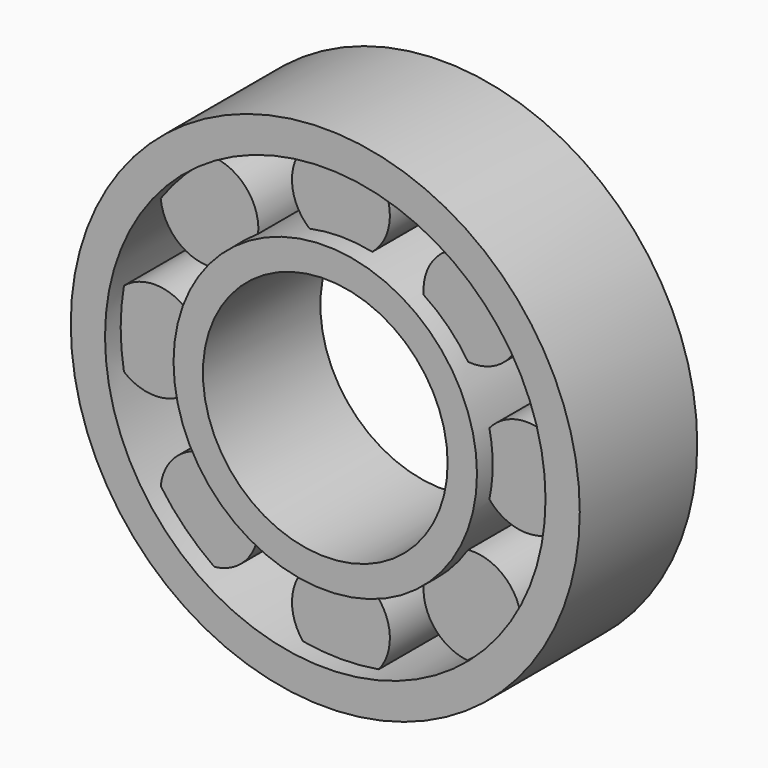
from build123d import *

# Parameters (mm, degrees)
F0_R     = 15.5
F0_R_2   = 12.5
F1_DEPTH = 7.5
F2_R     = 26
F2_R_2   = 22.5
F3_DEPTH = 7.5
F4_R     = 5
F5_DEPTH = 5.5


with BuildPart() as f1:
    # F0 (on Front) → F1 (new body, symmetric)
    with BuildSketch(Plane.XZ):
        Circle(F0_R)
        Circle(F0_R_2, mode=Mode.SUBTRACT)
    extrude(amount=F1_DEPTH, both=True)



with BuildPart() as f3:
    # F2 (on Front) → F3 (new body, symmetric)
    with BuildSketch(Plane.XZ):
        Circle(F2_R)
        Circle(F2_R_2, mode=Mode.SUBTRACT)
    extrude(amount=F3_DEPTH, both=True)


with BuildPart() as f1_1:
    add(f1.part)

    add(f3.part)  # F5 merges F3
    # F4 (on Front) → F5 (join, symmetric)
    with BuildSketch(Plane.XZ):
        with Locations((-13.4350288425, 13.4350288425)):
            Circle(F4_R)
        with Locations((0, 19)):
            Circle(F4_R)
        with Locations((13.4350288425, 13.4350288425)):
            Circle(F4_R)
        with Locations((19, 0)):
            Circle(F4_R)
        with Locations((-19, 0)):
            Circle(F4_R)
        with Locations((-13.4350288425, -13.4350288425)):
            Circle(F4_R)
        with Locations((13.4350288425, -13.4350288425)):
            Circle(F4_R)
        with Locations((0, -19)):
            Circle(F4_R)
    extrude(amount=F5_DEPTH, both=True)


solid = f1_1.part
